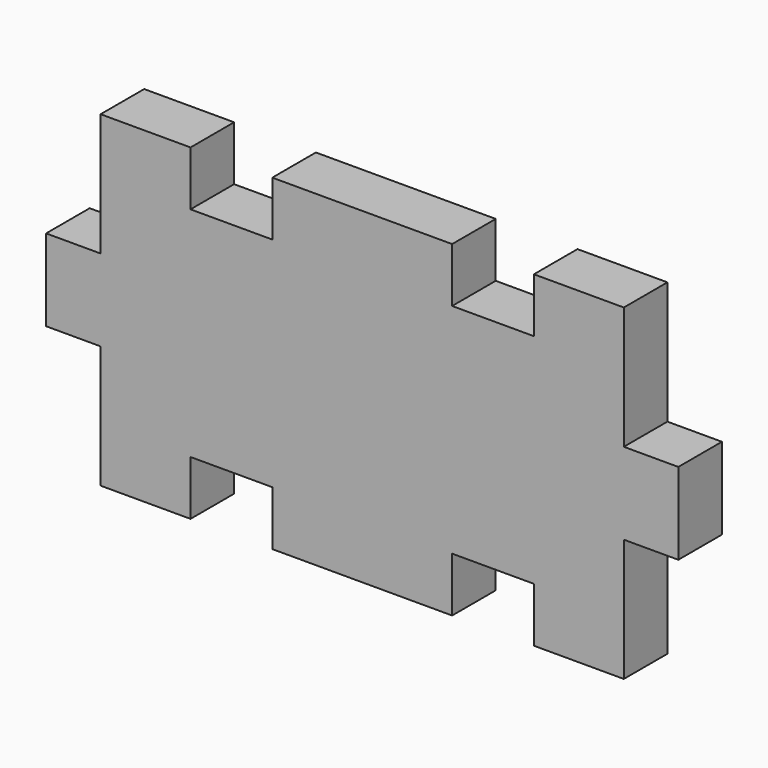
from build123d import *

# Parameters (mm, degrees)
F0_W     = 3.175
F0_H     = 2.38125
F1_DEPTH = 3.175


with BuildPart() as f1:
    # F0 (on Front) → F1 (new body)
    with BuildSketch(Plane.XZ):
        Polygon((-12.065, 0), (-7.62, 0), (-7.62, 6.35), (-10.00125, 6.35), (-10.00125, 9.525), (-15.24, 9.525), (-15.24, 2.38125), (-12.065, 2.38125), align=None)
        Polygon((5.23875, 6.35), (5.23875, 9.525), (0, 9.525), (0, 0), (7.62, 0), (7.62, 6.35), align=None)
        Polygon((0, 0), (0, 9.525), (-5.23875, 9.525), (-5.23875, 6.35), (-7.62, 6.35), (-7.62, 0), align=None)
        Polygon((15.24, 2.38125), (15.24, 9.525), (10.00125, 9.525), (10.00125, 6.35), (7.62, 6.35), (7.62, 0), (12.065, 0), (12.065, 2.38125), align=None)
        with Locations((13.6525, -1.190625)):
            Rectangle(F0_W, F0_H)
        with Locations((13.6525, 1.190625)):
            Rectangle(F0_W, F0_H)
        Polygon((18.415, 2.38125), (15.24, 2.38125), (15.24, 0), (15.24, -2.38125), (18.415, -2.38125), align=None)
        Polygon((15.24, -9.525), (15.24, -2.38125), (12.065, -2.38125), (12.065, 0), (7.62, 0), (7.62, -6.35), (10.00125, -6.35), (10.00125, -9.525), align=None)
        Polygon((0, -9.525), (0, 0), (-7.62, 0), (-7.62, -6.35), (-5.23875, -6.35), (-5.23875, -9.525), align=None)
        Polygon((7.62, -6.35), (7.62, 0), (0, 0), (0, -9.525), (5.23875, -9.525), (5.23875, -6.35), align=None)
        Polygon((-7.62, -6.35), (-7.62, 0), (-12.065, 0), (-12.065, -2.38125), (-15.24, -2.38125), (-15.24, -9.525), (-10.00125, -9.525), (-10.00125, -6.35), align=None)
        with Locations((-13.6525, 1.190625)):
            Rectangle(F0_W, F0_H)
        with Locations((-13.6525, -1.190625)):
            Rectangle(F0_W, F0_H)
        Polygon((-15.24, -2.38125), (-15.24, 0), (-15.24, 2.38125), (-18.415, 2.38125), (-18.415, -2.38125), align=None)
    extrude(amount=F1_DEPTH)


solid = f1.part
